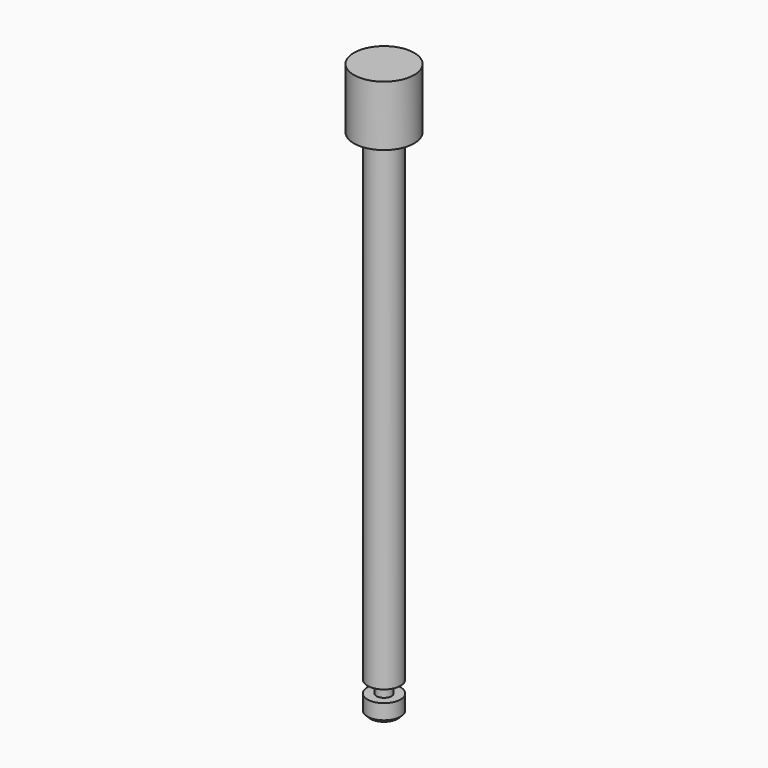
from build123d import *

# Parameters (mm, degrees)
F0_R     = 10
F1_DEPTH = 20
F2_R     = 5.5
F3_DEPTH = 160
F4_R     = 2.5
F5_DEPTH = 4
F6_R     = 5.5
F6_R_2   = 2.5
F7_DEPTH = 6
F8_SIZE  = 1


with BuildPart() as f1:
    # F0 (on Top) → F1 (new body)
    with BuildSketch(Plane.XY):
        Circle(F0_R)
    extrude(amount=F1_DEPTH)

    # F2 (on face) → F3 (join)
    with BuildSketch(Plane(origin=(0, 0, 0), x_dir=(1, 0, 0), z_dir=(0, 0, -1))):
        Circle(F2_R)
    extrude(amount=F3_DEPTH)

    # F4 (on face) → F5 (join)
    with BuildSketch(Plane(origin=(0, 0, -160), x_dir=(1, 0, 0), z_dir=(0, 0, -1))):
        Circle(F4_R)
    extrude(amount=F5_DEPTH)


with BuildPart() as f7:
    # F6 (on face) → F7 (new body)
    with BuildSketch(Plane(origin=(0, 0, -164), x_dir=(1, 0, 0), z_dir=(0, 0, -1))):
        Circle(F6_R)
        Circle(F6_R_2, mode=Mode.SUBTRACT)
    extrude(amount=F7_DEPTH)

    # F8
    f8_edges = [f7.edges().sort_by_distance(p)[0] for p in [
        (-5.5, 0, -170),
    ]]
    chamfer(f8_edges, length=F8_SIZE)


solid = Compound([f1.part, f7.part])
